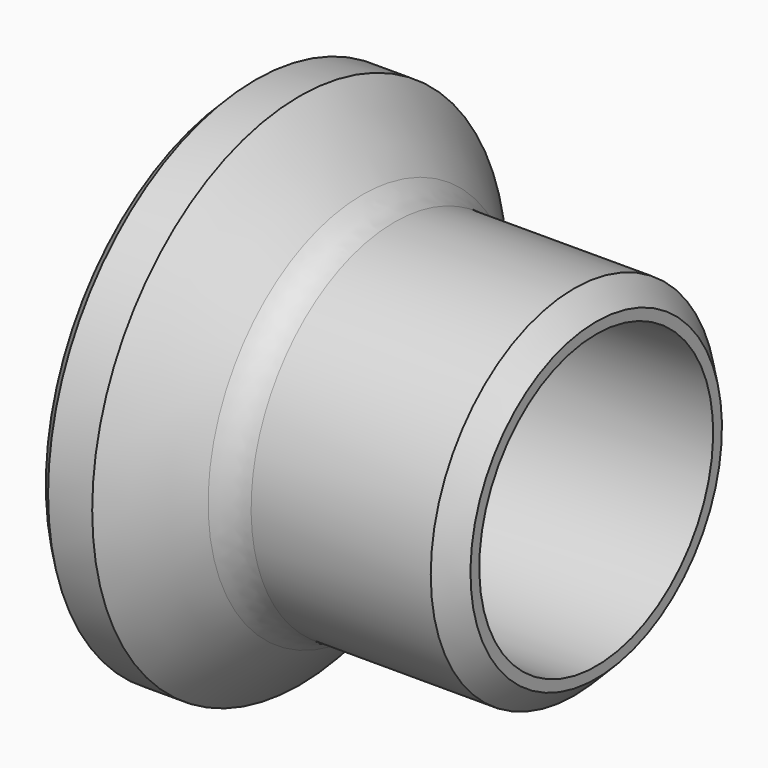
from build123d import *

# Parameters (mm, degrees)
F2_SIZE = 1
F3_SIZE = 2
F4_R    = 4


with BuildPart() as f1:
    # F0 (on Front) → F1 (revolve)
    with BuildSketch(Plane.XZ):
        Polygon((0, 23.5), (-5, 23.5), (-5, 20.5), (0, 20.5), (6.887489, 13.25), (26.887489, 13.25), (26.887489, 16.25), (6.887489, 16.25), align=None)
    revolve(axis=Axis((9.662958, 0, 0), (1, 0, 0)))

    # F2
    f2_edges = [f1.edges().sort_by_distance(p)[0] for p in [
        (-5, 0, -23.5),
    ]]
    chamfer(f2_edges, length=F2_SIZE)

    # F3
    f3_edges = [f1.edges().sort_by_distance(p)[0] for p in [
        (26.887489, 0, -16.25),
    ]]
    chamfer(f3_edges, length=F3_SIZE)

    # F4
    f4_edges = [f1.edges().sort_by_distance(p)[0] for p in [
        (6.887489, 0, -16.25),
        (6.887489, 0, -13.25),
        (0, 0, -20.5),
    ]]
    fillet(f4_edges, radius=F4_R)


solid = f1.part
